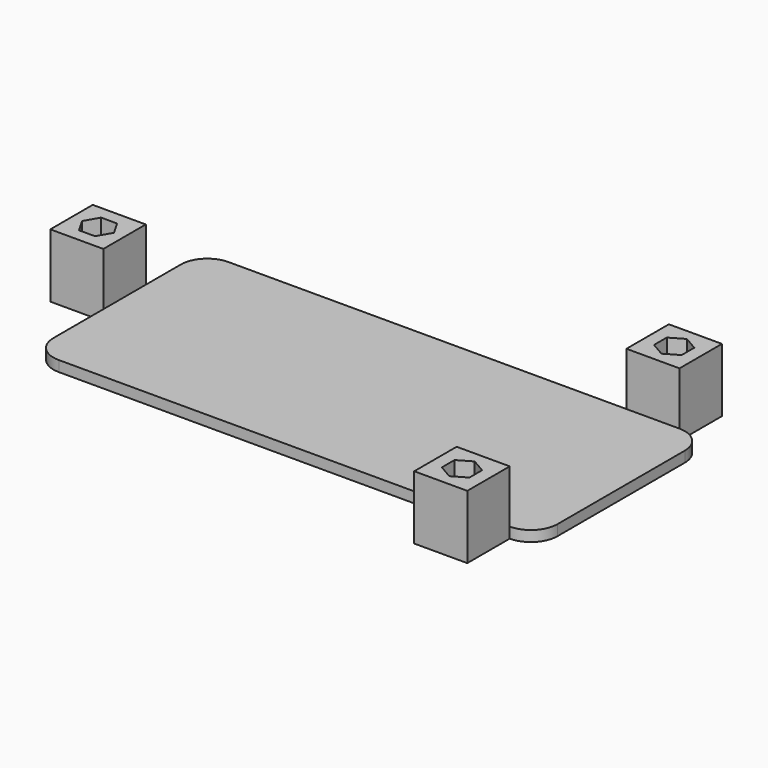
from build123d import *

# Parameters (mm, degrees)
PAD_DEPTH       = 2
SKETCH017_W     = 10
SKETCH017_H     = 10
PAD006_DEPTH    = 2
SKETCH018_W     = 10
SKETCH018_H     = 10
PAD007_DEPTH    = 10
SKETCH020_R     = 1.6
POCKET008_DEPTH = 9
POCKET009_DEPTH = 4


with BuildPart() as part:
    # Sketch → Pad (new body)
    with BuildSketch(Plane.XY):
        with BuildLine():
            Line((5, 0), (90, 0))
            ThreePointArc((90, 0), (93.535534, 1.464466), (95, 5))
            Line((95, 5), (95, 35))
            ThreePointArc((95, 35), (93.535534, 38.535534), (90, 40))
            Line((90, 40), (5, 40))
            ThreePointArc((5, 40), (1.464466, 38.535534), (0, 35))
            Line((0, 35), (0, 5))
            ThreePointArc((0, 5), (1.464466, 1.464466), (5, 0))
        make_face()
    extrude(amount=PAD_DEPTH)

    # Sketch017 (on Face10 of Pad) → Pad006 (join)
    with BuildSketch(Plane.XY.offset(2)):
        with Locations((-5, 21.75)):
            Rectangle(SKETCH017_W, SKETCH017_H)
        with Locations((85, -5)):
            Rectangle(SKETCH017_W, SKETCH017_H)
        with Locations((85, 45)):
            Rectangle(SKETCH017_W, SKETCH017_H)
    extrude(amount=-PAD006_DEPTH)

    # Sketch018 (on Face18 of Pad006) → Pad007 (join)
    with BuildSketch(Plane.XY.offset(2)):
        with Locations((-5, 21.75)):
            Rectangle(SKETCH018_W, SKETCH018_H)
        with Locations((85, -5)):
            Rectangle(SKETCH018_W, SKETCH018_H)
        with Locations((85, 45)):
            Rectangle(SKETCH018_W, SKETCH018_H)
    extrude(amount=PAD007_DEPTH)

    # Sketch020 (on Face29 of Pad007) → Pocket008 (cut)
    with BuildSketch(Plane.XY.offset(12)):
        with Locations((85, -5)):
            Circle(SKETCH020_R)
        with Locations((85, 45)):
            Circle(SKETCH020_R)
        with Locations((-5, 21.75)):
            Circle(SKETCH020_R)
    extrude(amount=-POCKET008_DEPTH, mode=Mode.SUBTRACT)

    # Sketch021 (on Face29 of Pocket008) → Pocket009 (cut)
    with BuildSketch(Plane.XY.offset(12)):
        Polygon((-3.5, 19.151924), (-2, 21.75), (-3.5, 24.348076), (-6.5, 24.348076), (-8, 21.75), (-6.5, 19.151924), align=None)
        Polygon((87.598076, 43.5), (87.598076, 46.5), (85, 48), (82.401924, 46.5), (82.401924, 43.5), (85, 42), align=None)
        Polygon((87.598076, -6.5), (87.598076, -3.5), (85, -2), (82.401924, -3.5), (82.401924, -6.5), (85, -8), align=None)
    extrude(amount=-POCKET009_DEPTH, mode=Mode.SUBTRACT)


solid = part.part
